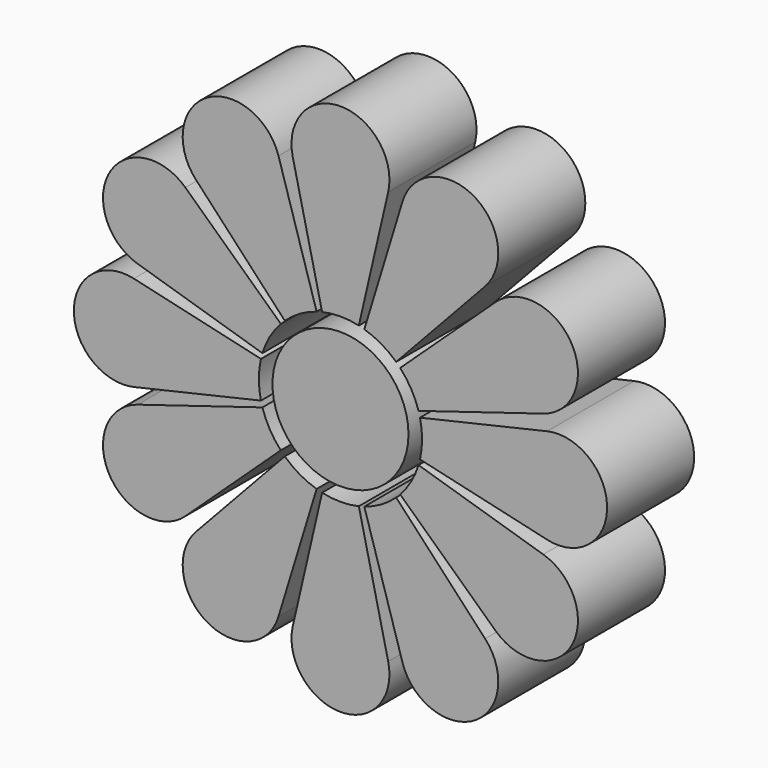
from build123d import *

# Parameters (mm, degrees)
F0_R     = 15.875
F1_DEPTH = 25.4


with BuildPart() as f1:
    # F0 (on Front) → F1 (new body)
    with BuildSketch(Plane.XZ):
        with BuildLine():
            ThreePointArc((-4.28625, 18.561534), (0, 19.05), (4.28625, 18.561534))
            Line((4.28625, 18.561534), (11.136921, 48.22825))
            ThreePointArc((11.136921, 48.22825), (0, 62.23), (-11.136921, 48.22825))
            Line((-11.136921, 48.22825), (-4.28625, 18.561534))
        make_face()
        Circle(F0_R)
        with BuildLine():
            ThreePointArc((-12.992769, 13.931635), (-9.525, 16.497784), (-5.568766, 18.217885))
            Line((-5.568766, 18.217885), (-14.469269, 47.33535))
            ThreePointArc((-14.469269, 47.33535), (-31.115, 53.892761), (-33.758981, 36.198429))
            Line((-33.758981, 36.198429), (-12.992769, 13.931635))
        make_face()
        with BuildLine():
            ThreePointArc((-18.217885, 5.568766), (-16.497784, 9.525), (-13.931635, 12.992769))
            Line((-13.931635, 12.992769), (-36.198429, 33.758981))
            ThreePointArc((-36.198429, 33.758981), (-53.892761, 31.115), (-47.33535, 14.469269))
            Line((-47.33535, 14.469269), (-18.217885, 5.568766))
        make_face()
        with BuildLine():
            ThreePointArc((-18.561534, -4.28625), (-19.05, 0), (-18.561534, 4.28625))
            Line((-18.561534, 4.28625), (-48.22825, 11.136921))
            ThreePointArc((-48.22825, 11.136921), (-62.23, 0), (-48.22825, -11.136921))
            Line((-48.22825, -11.136921), (-18.561534, -4.28625))
        make_face()
        with BuildLine():
            ThreePointArc((-13.931635, -12.992769), (-16.497784, -9.525), (-18.217885, -5.568766))
            Line((-18.217885, -5.568766), (-47.33535, -14.469269))
            ThreePointArc((-47.33535, -14.469269), (-53.892761, -31.115), (-36.198429, -33.758981))
            Line((-36.198429, -33.758981), (-13.931635, -12.992769))
        make_face()
        with BuildLine():
            ThreePointArc((-5.568766, -18.217885), (-9.525, -16.497784), (-12.992769, -13.931635))
            Line((-12.992769, -13.931635), (-33.758981, -36.198429))
            ThreePointArc((-33.758981, -36.198429), (-31.115, -53.892761), (-14.469269, -47.33535))
            Line((-14.469269, -47.33535), (-5.568766, -18.217885))
        make_face()
        with BuildLine():
            ThreePointArc((4.28625, -18.561534), (0, -19.05), (-4.28625, -18.561534))
            Line((-4.28625, -18.561534), (-11.136921, -48.22825))
            ThreePointArc((-11.136921, -48.22825), (0, -62.23), (11.136921, -48.22825))
            Line((11.136921, -48.22825), (4.28625, -18.561534))
        make_face()
        with BuildLine():
            ThreePointArc((12.992769, -13.931635), (9.525, -16.497784), (5.568766, -18.217885))
            Line((5.568766, -18.217885), (14.469269, -47.33535))
            ThreePointArc((14.469269, -47.33535), (31.115, -53.892761), (33.758981, -36.198429))
            Line((33.758981, -36.198429), (12.992769, -13.931635))
        make_face()
        with BuildLine():
            ThreePointArc((18.217885, -5.568766), (16.497784, -9.525), (13.931635, -12.992769))
            Line((13.931635, -12.992769), (36.198429, -33.758981))
            ThreePointArc((36.198429, -33.758981), (53.892761, -31.115), (47.33535, -14.469269))
            Line((47.33535, -14.469269), (18.217885, -5.568766))
        make_face()
        with BuildLine():
            ThreePointArc((18.561534, 4.28625), (19.05, 0), (18.561534, -4.28625))
            Line((18.561534, -4.28625), (48.22825, -11.136921))
            ThreePointArc((48.22825, -11.136921), (62.23, 0), (48.22825, 11.136921))
            Line((48.22825, 11.136921), (18.561534, 4.28625))
        make_face()
        with BuildLine():
            ThreePointArc((13.931635, 12.992769), (16.497784, 9.525), (18.217885, 5.568766))
            Line((18.217885, 5.568766), (47.33535, 14.469269))
            ThreePointArc((47.33535, 14.469269), (53.892761, 31.115), (36.198429, 33.758981))
            Line((36.198429, 33.758981), (13.931635, 12.992769))
        make_face()
        with BuildLine():
            ThreePointArc((5.568766, 18.217885), (9.525, 16.497784), (12.992769, 13.931635))
            Line((12.992769, 13.931635), (33.758981, 36.198429))
            ThreePointArc((33.758981, 36.198429), (31.115, 53.892761), (14.469269, 47.33535))
            Line((14.469269, 47.33535), (5.568766, 18.217885))
        make_face()
    extrude(amount=F1_DEPTH)


solid = f1.part
